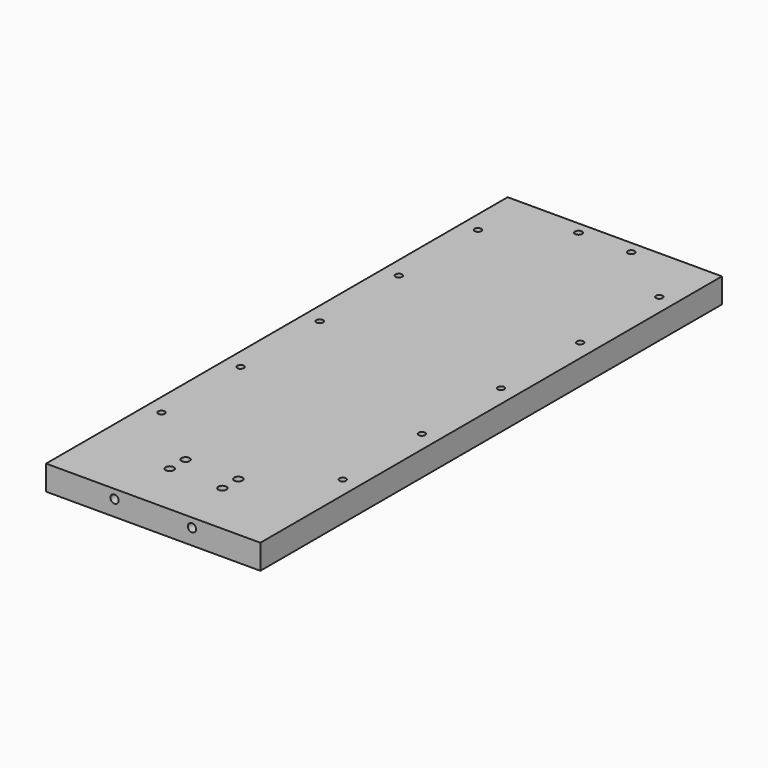
from build123d import *

# Parameters (mm, degrees)
SKETCH_W     = 130
SKETCH_H     = 350
SKETCH_R     = 2.1
SKETCH_R_2   = 2.5
SKETCH_R_3   = 2
PAD_DEPTH    = 15
SKETCH001_R  = 2.5
POCKET_DEPTH = 10


with BuildPart() as part:
    # Sketch → Pad (new body)
    with BuildSketch(Plane.XY):
        with Locations((65, 175)):
            Rectangle(SKETCH_W, SKETCH_H)
        with Locations((49, 342.5)):
            Circle(SKETCH_R, mode=Mode.SUBTRACT)
        with Locations((81, 342.5)):
            Circle(SKETCH_R, mode=Mode.SUBTRACT)
        with Locations((49, 44.5)):
            Circle(SKETCH_R_2, mode=Mode.SUBTRACT)
        with Locations((81, 44.5)):
            Circle(SKETCH_R_2, mode=Mode.SUBTRACT)
        with Locations((49, 32.5)):
            Circle(SKETCH_R_2, mode=Mode.SUBTRACT)
        with Locations((81, 32.5)):
            Circle(SKETCH_R_2, mode=Mode.SUBTRACT)
        with Locations((10, 75)):
            Circle(SKETCH_R_3, mode=Mode.SUBTRACT)
        with Locations((10, 135)):
            Circle(SKETCH_R_3, mode=Mode.SUBTRACT)
        with Locations((10, 195)):
            Circle(SKETCH_R_3, mode=Mode.SUBTRACT)
        with Locations((10, 255)):
            Circle(SKETCH_R_3, mode=Mode.SUBTRACT)
        with Locations((10, 315)):
            Circle(SKETCH_R_3, mode=Mode.SUBTRACT)
        with Locations((120, 75)):
            Circle(SKETCH_R_3, mode=Mode.SUBTRACT)
        with Locations((120, 135)):
            Circle(SKETCH_R_3, mode=Mode.SUBTRACT)
        with Locations((120, 195)):
            Circle(SKETCH_R_3, mode=Mode.SUBTRACT)
        with Locations((120, 255)):
            Circle(SKETCH_R_3, mode=Mode.SUBTRACT)
        with Locations((120, 315)):
            Circle(SKETCH_R_3, mode=Mode.SUBTRACT)
    extrude(amount=PAD_DEPTH)

    # Sketch001 (on Face1 of Pad) → Pocket (cut)
    with BuildSketch(Plane.XZ):
        with Locations((41.5, 9.5)):
            Circle(SKETCH001_R)
        with Locations((88.5, 9.5)):
            Circle(SKETCH001_R)
    extrude(amount=-POCKET_DEPTH, mode=Mode.SUBTRACT)


solid = part.part
